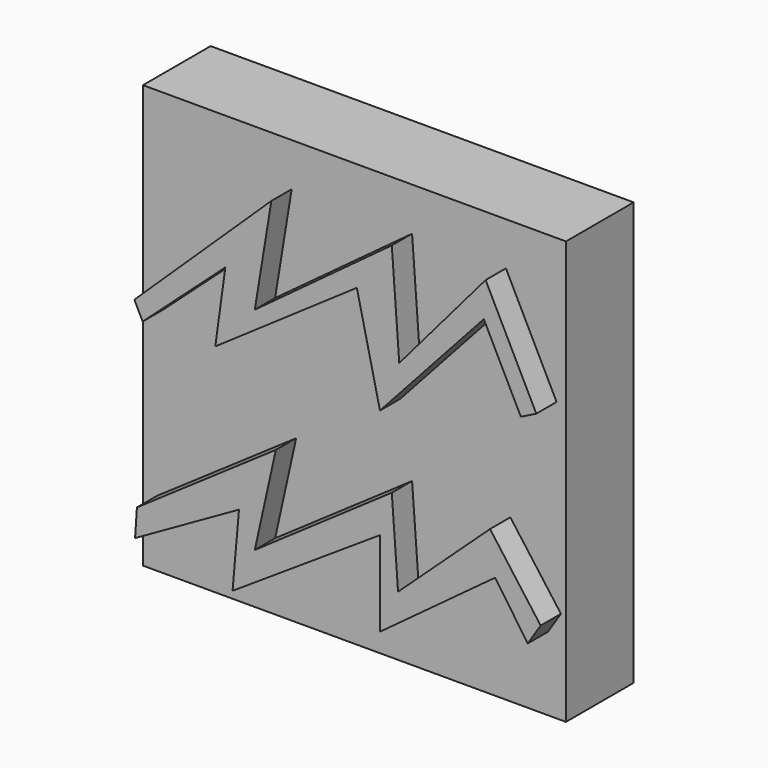
from build123d import *

# Parameters (mm, degrees)
F0_W     = 25.4
F0_H     = 25.4
F1_DEPTH = 5.08
F3_DEPTH = 1.524


with BuildPart() as f1:
    # F0 (on Front) → F1 (new body)
    with BuildSketch(Plane.XZ):
        Rectangle(F0_W, F0_H)
    extrude(amount=F1_DEPTH)

    # F2 (on face) → F3 (join)
    with BuildSketch(Plane.XZ.offset(5.08)):
        Polygon((-3.770767, 10.104783), (-11.998158, 2.208696), (-11.499409, 1.213393), (-6.533915, 5.693889), (-7.137069, 1.319007), (1.363335, 7.181271), (2.750369, 1.142781), (8.985079, 8.0043), (11.209368, 3.565513), (12.137308, 4.030507), (9.09347, 10.104783), (3.907741, 4.030507), (3.459665, 10.104783), (-4.764671, 4.030507), align=None)
        Polygon((-3.500791, -2.970403), (-11.84413, -8.724348), (-11.954566, -10.380869), (-5.715, -6.846956), (-6.101522, -11.264347), (2.750369, -5.442571), (2.750369, -10.549271), (9.664643, -5.442571), (11.623261, -8.282608), (12.397479, -7.083917), (9.359348, -2.970403), (3.83674, -8.08217), (3.459665, -2.970403), (-4.764671, -8.669131), align=None)
    extrude(amount=F3_DEPTH)


solid = f1.part
